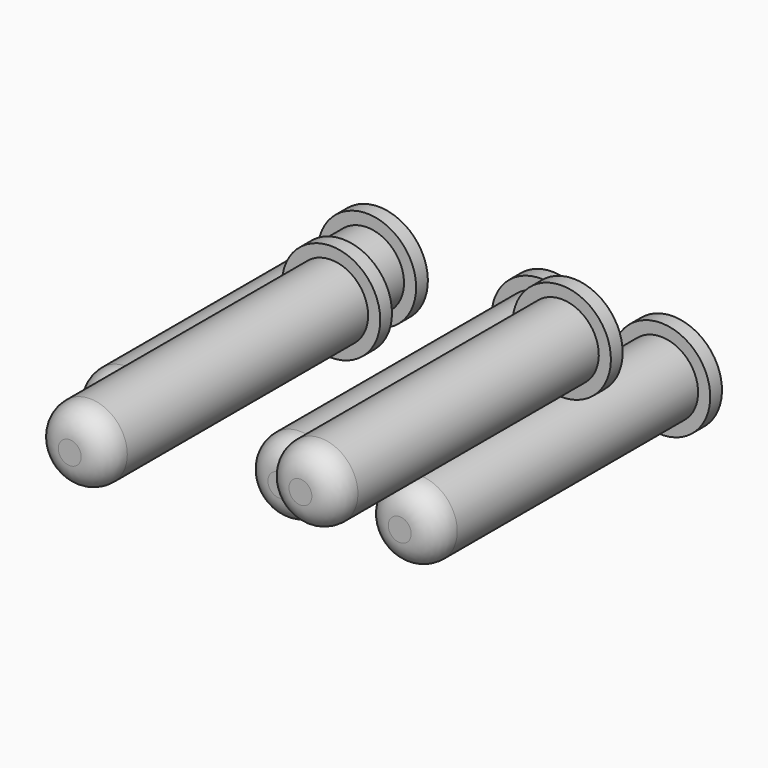
from build123d import *

# Parameters (mm, degrees)
F0_R     = 2.7559
F1_DEPTH = 25.4
F0_R_2   = 3.6576
F2_DEPTH = 1.0922
F3_R     = 1.905
F5_COUNT = 5


with BuildPart() as f1:
    # F0 (on Front) → F1 (new body)
    with BuildSketch(Plane.XZ):
        with Locations((0, 7.62)):
            Circle(F0_R)
    extrude(amount=F1_DEPTH)

    # F0 (on Front) → F2 (join)
    with BuildSketch(Plane.XZ):
        with Locations((0, 7.62)):
            Circle(F0_R_2)
        with Locations((0, 7.62)):
            Circle(F0_R, mode=Mode.SUBTRACT)
    extrude(amount=F2_DEPTH)

    # F3
    f3_edges = [f1.edges().sort_by_distance(p)[0] for p in [
        (-2.7559, -25.4, 7.62),
    ]]
    fillet(f3_edges, radius=F3_R)


with BuildPart() as f5_1:
    # F5: instance of F1
    add(f1.part.rotate(Axis((0, -12.7, 0), (0, -1, 0)), 1 * 360 / F5_COUNT))


with BuildPart() as f5_2:
    # F5: instance of F1
    add(f1.part.rotate(Axis((0, -12.7, 0), (0, -1, 0)), 2 * 360 / F5_COUNT))


with BuildPart() as f5_3:
    # F5: instance of F1
    add(f1.part.rotate(Axis((0, -12.7, 0), (0, -1, 0)), 3 * 360 / F5_COUNT))


with BuildPart() as f5_4:
    # F5: instance of F1
    add(f1.part.rotate(Axis((0, -12.7, 0), (0, -1, 0)), 4 * 360 / F5_COUNT))


with BuildPart() as f5_4_1:
    # F6: moved
    add(f5_4.part.moved(Location((0, 12.3952, 0))))


with BuildPart() as f5_1_1:
    # F6: moved
    add(f5_1.part.moved(Location((0, 12.3952, 0))))


with BuildPart() as f5_2_1:
    # F7: moved
    add(f5_2.part.moved(Location((0, 25.0952, 0))))


with BuildPart() as f5_3_1:
    # F7: moved
    add(f5_3.part.moved(Location((0, 25.0952, 0))))


solid = Compound([f1.part, f5_4_1.part, f5_1_1.part, f5_2_1.part, f5_3_1.part])
